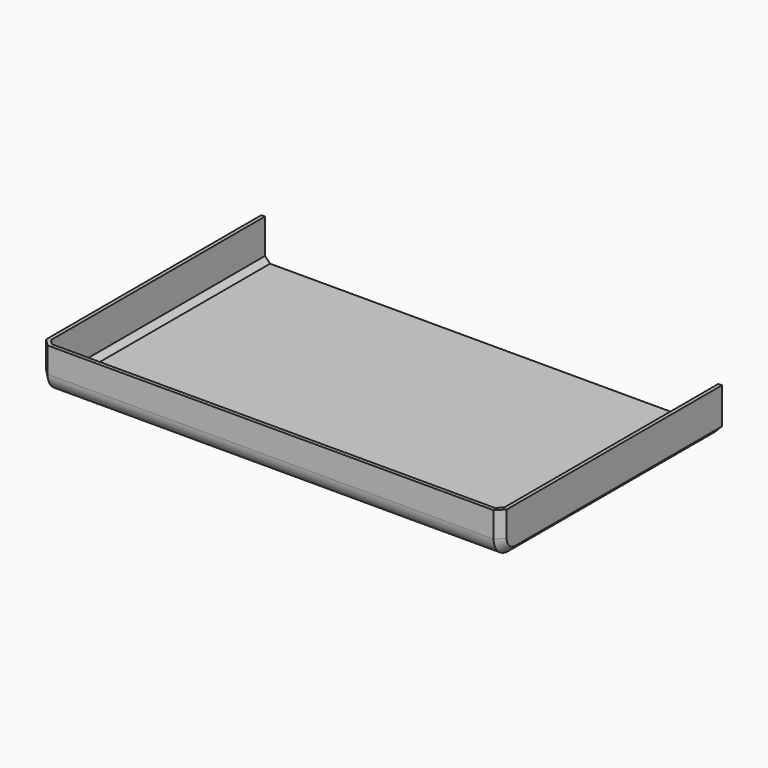
from build123d import *

# Parameters (mm, degrees)
F0_W     = 127
F0_H     = 76.2
F1_DEPTH = 12
F2_R     = 5
F3_SIZE  = 2
F4_T     = -1


with BuildPart() as f1:
    # F0 (on Top) → F1 (new body)
    with BuildSketch(Plane.XY):
        with Locations((-63.5, -38.1)):
            Rectangle(F0_W, F0_H)
    extrude(amount=F1_DEPTH)

    # F2
    f2_edges = [f1.edges().sort_by_distance(p)[0] for p in [
        (-63.5, -76.2, 0),
    ]]
    fillet(f2_edges, radius=F2_R)

    # F3
    f3_edges = [f1.edges().sort_by_distance(p)[0] for p in [
        (0, -76.2, 8.5),
        (-127, -76.2, 8.5),
    ]]
    chamfer(f3_edges, length=F3_SIZE)

    # F4
    f4_openings = [f1.faces().sort_by_distance(p)[0] for p in [
        (-63.5, -38.084521, 12),
        (-63.5, 0, 6.014035),
    ]]
    offset(amount=F4_T, openings=f4_openings)


solid = f1.part
